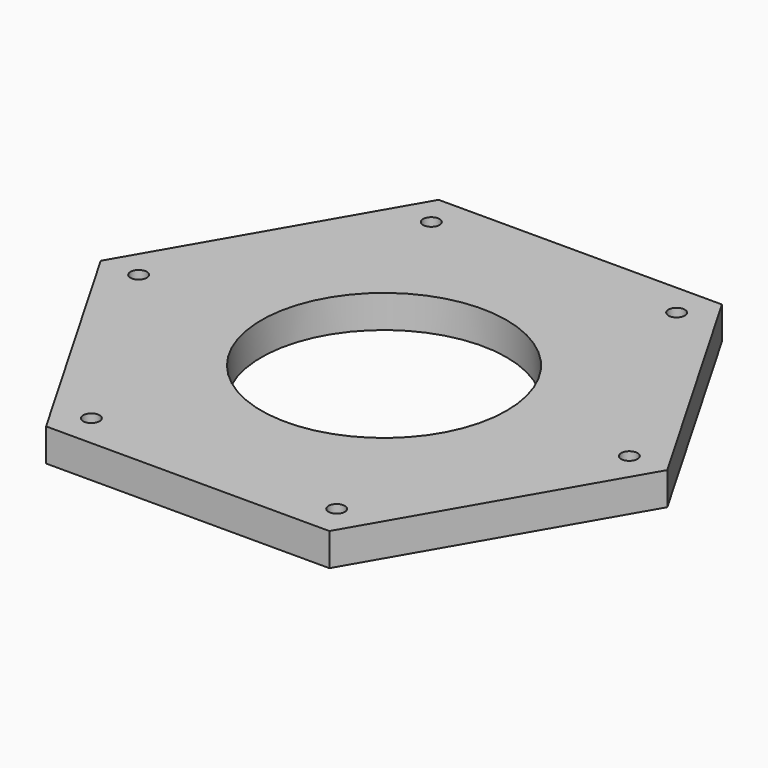
from build123d import *

# Parameters (mm, degrees)
F1_DEPTH = 20
F2_R     = 75
F3_DEPTH = 20.001
F4_R     = 5
F5_DEPTH = 20.001
F6_DEPTH = 25
F7_T     = -5


with BuildPart() as f1:
    # F0 (on Top) → F1 (new body)
    with BuildSketch(Plane.XY):
        Polygon((86.6025403784, -150), (173.2050807569, 0), (86.6025403784, 150), (-86.6025403784, 150), (-173.2050807569, 0), (-86.6025403784, -150), align=None)
    extrude(amount=F1_DEPTH)

    # F2 (on face) → F3 (cut, through all)
    with BuildSketch(Plane.XY.offset(20)):
        Circle(F2_R)
    extrude(amount=-F3_DEPTH, mode=Mode.SUBTRACT)

    # F4 (on face) → F5 (cut, through all)
    with BuildSketch(Plane.XY.offset(20)):
        with Locations((75, 129.9038105677)):
            Circle(F4_R)
        with Locations((-75, -129.9038105677)):
            Circle(F4_R)
        with Locations((-150, 0)):
            Circle(F4_R)
        with Locations((150, 0)):
            Circle(F4_R)
        with Locations((75, -129.9038105677)):
            Circle(F4_R)
    extrude(amount=-F5_DEPTH, mode=Mode.SUBTRACT)

    # F4 (on face) → F6 (cut)
    with BuildSketch(Plane.XY.offset(20)):
        with Locations((-75, 129.9038105677)):
            Circle(F4_R)
        with Locations((75, 129.9038105677)):
            Circle(F4_R)
        with Locations((-75, -129.9038105677)):
            Circle(F4_R)
        with Locations((-150, 0)):
            Circle(F4_R)
        with Locations((150, 0)):
            Circle(F4_R)
        with Locations((75, -129.9038105677)):
            Circle(F4_R)
    extrude(amount=-F6_DEPTH, mode=Mode.SUBTRACT)

    # F7
    f7_openings = [f1.faces().sort_by_distance(p)[0] for p in [
        (0, -145.417424, 0),
    ]]
    offset(amount=F7_T, openings=f7_openings)


solid = f1.part
